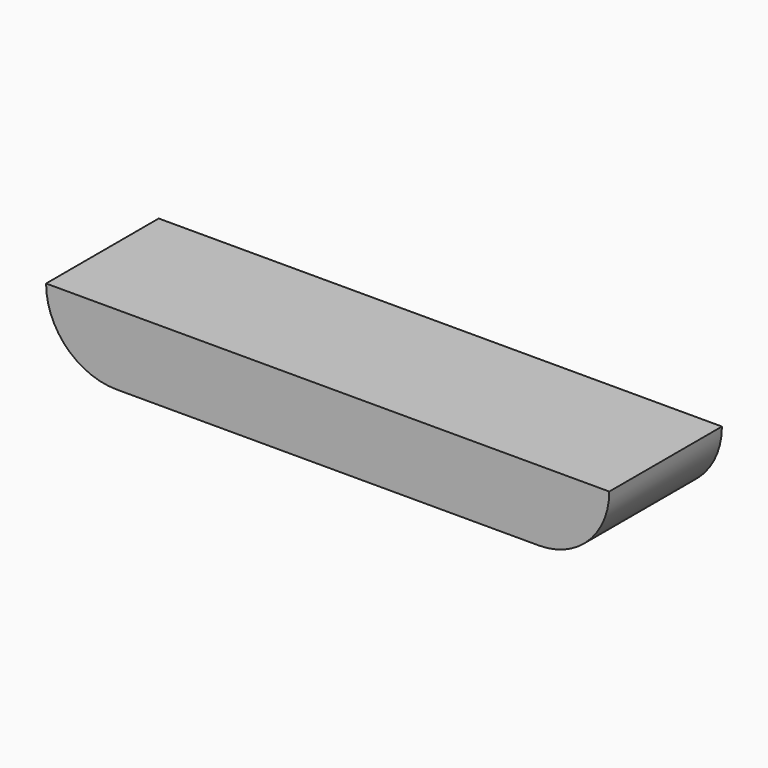
from build123d import *

# Parameters (mm, degrees)
F1_DEPTH = 609.6


with BuildPart() as f1:
    # F0 (on Front) → F1 (new body)
    with BuildSketch(Plane.XZ):
        with BuildLine():
            Line((914.4, 152.4), (-914.4, 152.4))
            Line((-914.4, 152.4), (-1219.2, 152.4))
            ThreePointArc((-1219.2, 152.4), (-1129.926147, -63.126147), (-914.4, -152.4))
            Line((-914.4, -152.4), (914.4, -152.4))
            ThreePointArc((914.4, -152.4), (1129.926147, -63.126147), (1219.2, 152.4))
            Line((1219.2, 152.4), (914.4, 152.4))
        make_face()
    extrude(amount=F1_DEPTH)


solid = f1.part
